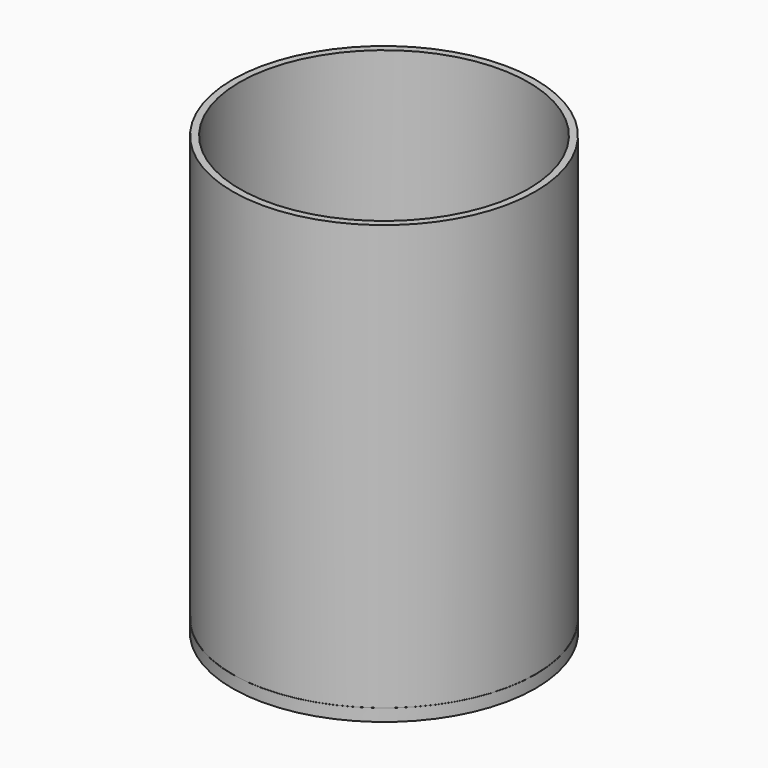
from build123d import *

# Parameters (mm, degrees)
F2_R     = 43
F2_R_2   = 41
F0_DEPTH = 120.65
F3_R     = 43.053
F1_DEPTH = 3.5


with BuildPart() as f0:
    # F2 (on Top) → F0 (new body)
    with BuildSketch(Plane.XY):
        Circle(F2_R)
        Circle(F2_R_2, mode=Mode.SUBTRACT)
    extrude(amount=F0_DEPTH)

    # F3 (on Top) → F1 (join)
    with BuildSketch(Plane.XY):
        Circle(F3_R)
    extrude(amount=-F1_DEPTH)


solid = f0.part
